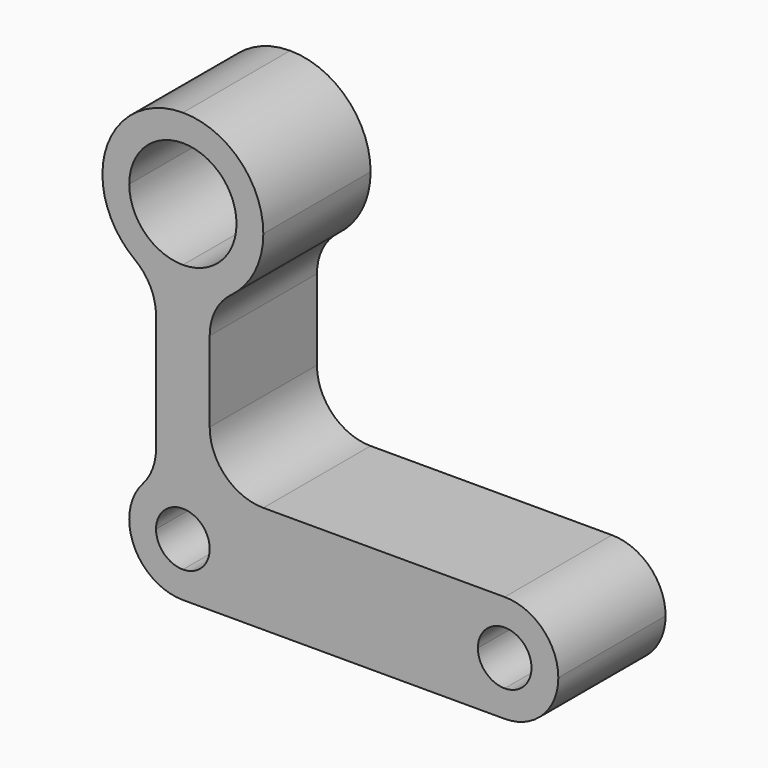
from build123d import *

# Parameters (mm, degrees)
F1_DEPTH = 25


with BuildPart() as f1:
    # F0 (on Front) → F1 (new body)
    with BuildSketch(Plane.XZ):
        with BuildLine():
            Line((-106.630048, -6.426643), (-101.630048, -6.426643))
            Line((-101.630048, -6.426643), (-101.630048, 5))
            ThreePointArc((-101.630048, 5), (-108.701115, 7.928932), (-111.630048, 15))
            Line((-111.630048, 15), (-116.630048, 15))
            ThreePointArc((-116.630048, 15), (-115.046455, 8.291796), (-110.630048, 3))
            ThreePointArc((-110.630048, 3), (-107.685776, -0.527864), (-106.630048, -5))
            Line((-106.630048, -5), (-106.630048, -6.426643))
        make_face()
        with BuildLine():
            Line((-101.630048, 5), (-101.630048, -6.426643))
            Line((-101.630048, -6.426643), (-96.630048, -6.426643))
            Line((-96.630048, -6.426643), (-96.630048, -5))
            ThreePointArc((-96.630048, -5), (-95.574319, -0.527864), (-92.630048, 3))
            ThreePointArc((-92.630048, 3), (-88.21364, 8.291796), (-86.630048, 15))
            Line((-86.630048, 15), (-91.630048, 15))
            ThreePointArc((-91.630048, 15), (-94.55898, 7.928932), (-101.630048, 5))
        make_face()
        with BuildLine():
            ThreePointArc((-101.630048, 25), (-94.55898, 22.071068), (-91.630048, 15))
            Line((-91.630048, 15), (-86.630048, 15))
            ThreePointArc((-86.630048, 15), (-91.023446, 25.606602), (-101.630048, 30))
            Line((-101.630048, 30), (-101.630048, 25))
        make_face()
        with BuildLine():
            Line((-116.630048, 15), (-111.630048, 15))
            ThreePointArc((-111.630048, 15), (-108.701115, 22.071068), (-101.630048, 25))
            Line((-101.630048, 25), (-101.630048, 30))
            ThreePointArc((-101.630048, 30), (-112.236649, 25.606602), (-116.630048, 15))
        make_face()
        with BuildLine():
            Line((-96.630048, -6.426643), (-101.630048, -6.426643))
            Line((-101.630048, -6.426643), (-101.630048, -30))
            Line((-101.630048, -30), (-101.630048, -35))
            ThreePointArc((-101.630048, -35), (-98.094514, -36.464466), (-96.630048, -40))
            Line((-96.630048, -40), (-91.630048, -40))
            Line((-91.630048, -40), (-91.630048, -30))
            Line((-91.630048, -30), (-86.630048, -30))
            ThreePointArc((-86.630048, -30), (-93.701115, -27.071068), (-96.630048, -20))
            Line((-96.630048, -20), (-96.630048, -6.426643))
        make_face()
        with BuildLine():
            Line((-101.630048, -30), (-101.630048, -6.426643))
            Line((-101.630048, -6.426643), (-106.630048, -6.426643))
            Line((-106.630048, -6.426643), (-106.630048, -26.771243))
            ThreePointArc((-106.630048, -26.771243), (-107.275904, -30.306777), (-109.130048, -33.385622))
            ThreePointArc((-109.130048, -33.385622), (-110.984191, -36.464466), (-111.630048, -40))
            Line((-111.630048, -40), (-106.630048, -40))
            ThreePointArc((-106.630048, -40), (-105.165581, -36.464466), (-101.630048, -35))
            Line((-101.630048, -35), (-101.630048, -30))
        make_face()
        with BuildLine():
            ThreePointArc((-101.630048, -45), (-105.165581, -43.535534), (-106.630048, -40))
            Line((-106.630048, -40), (-111.630048, -40))
            ThreePointArc((-111.630048, -40), (-108.701115, -47.071068), (-101.630048, -50))
            Line((-101.630048, -50), (-101.630048, -45))
        make_face()
        with BuildLine():
            Line((-91.630048, -40), (-96.630048, -40))
            ThreePointArc((-96.630048, -40), (-98.094514, -43.535534), (-101.630048, -45))
            Line((-101.630048, -45), (-101.630048, -50))
            Line((-101.630048, -50), (-91.630048, -50))
            Line((-91.630048, -50), (-91.630048, -40))
        make_face()
        with BuildLine():
            Line((-46.630048, -40), (-91.630048, -40))
            Line((-91.630048, -40), (-91.630048, -50))
            Line((-91.630048, -50), (-41.630048, -50))
            Line((-41.630048, -50), (-41.630048, -45))
            ThreePointArc((-41.630048, -45), (-45.165581, -43.535534), (-46.630048, -40))
        make_face()
        with BuildLine():
            Line((-41.630048, -30), (-86.630048, -30))
            Line((-86.630048, -30), (-91.630048, -30))
            Line((-91.630048, -30), (-91.630048, -40))
            Line((-91.630048, -40), (-46.630048, -40))
            ThreePointArc((-46.630048, -40), (-45.165581, -36.464466), (-41.630048, -35))
            Line((-41.630048, -35), (-41.630048, -30))
        make_face()
        with BuildLine():
            ThreePointArc((-41.630048, -50), (-34.55898, -47.071068), (-31.630048, -40))
            Line((-31.630048, -40), (-36.630048, -40))
            ThreePointArc((-36.630048, -40), (-38.094514, -43.535534), (-41.630048, -45))
            Line((-41.630048, -45), (-41.630048, -50))
        make_face()
        with BuildLine():
            ThreePointArc((-31.630048, -40), (-34.55898, -32.928932), (-41.630048, -30))
            Line((-41.630048, -30), (-41.630048, -35))
            ThreePointArc((-41.630048, -35), (-38.094514, -36.464466), (-36.630048, -40))
            Line((-36.630048, -40), (-31.630048, -40))
        make_face()
    extrude(amount=F1_DEPTH)


solid = f1.part
